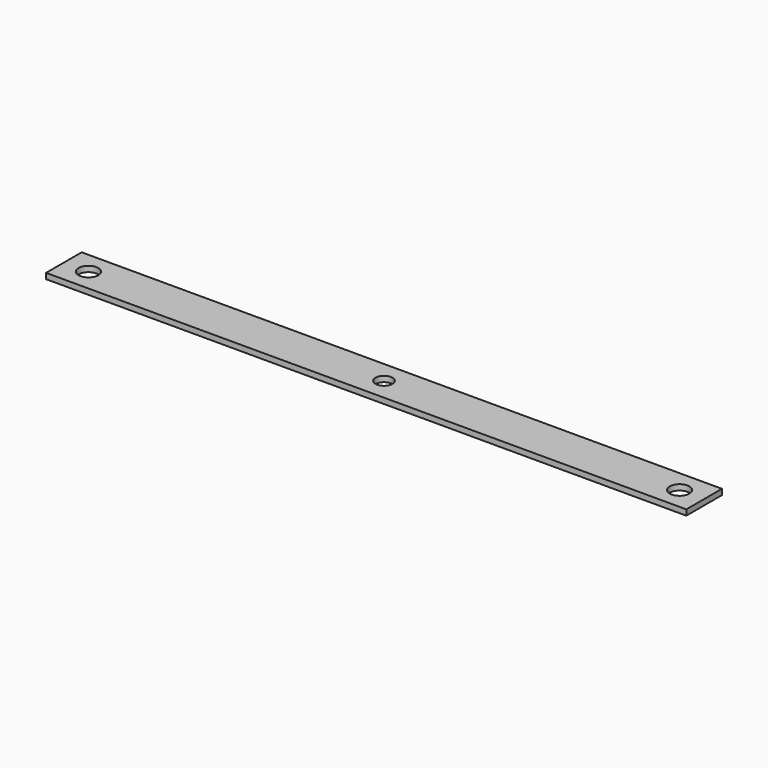
from build123d import *

# Parameters (mm, degrees)
SKETCH004_W   = 113.720292
SKETCH004_H   = 7.903844
SKETCH004_R   = 1.75
SKETCH004_R_2 = 1.5
PAD_DEPTH     = 1


with BuildPart() as part:
    # Sketch004 → Pad (new body)
    with BuildSketch(Plane.XY):
        Rectangle(SKETCH004_W, SKETCH004_H)
        with Locations((-52.5, 0)):
            Circle(SKETCH004_R, mode=Mode.SUBTRACT)
        with Locations((52.5, 0)):
            Circle(SKETCH004_R, mode=Mode.SUBTRACT)
        Circle(SKETCH004_R_2, mode=Mode.SUBTRACT)
    extrude(amount=PAD_DEPTH)


solid = part.part
